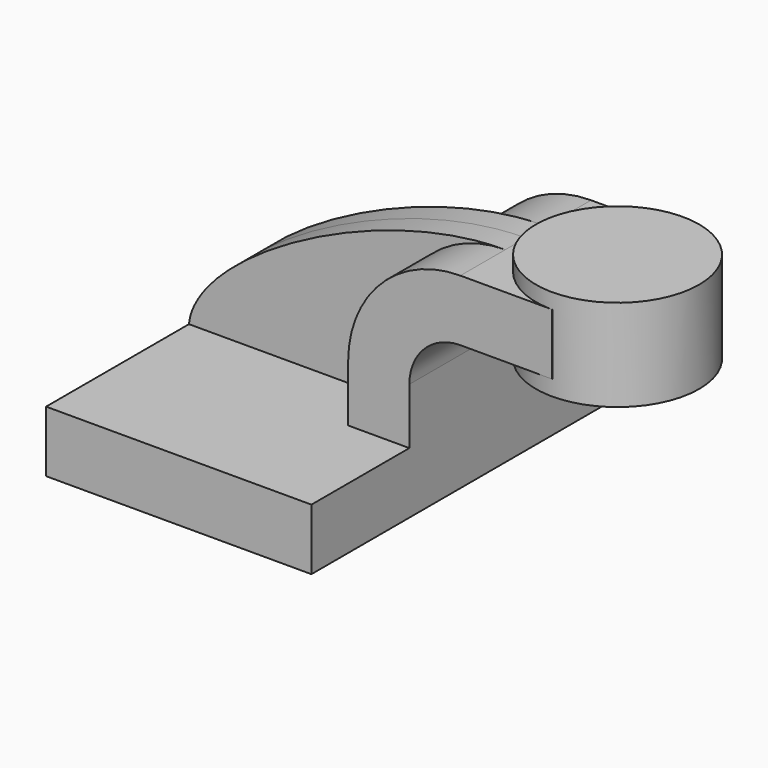
from build123d import *

# Parameters (mm, degrees)
F1_DEPTH = 63.5
F0_W     = 25.4
F0_H     = 19.05
F2_DEPTH = 25.4
F3_DEPTH = 7.9375


with BuildPart() as f1:
    # F0 (on Front) → F1 (new body, symmetric)
    with BuildSketch(Plane.XZ):
        Polygon((22.225, 9.525), (-41.275, 9.525), (-41.275, -9.525), (41.275, -9.525), (41.275, 9.525), align=None)
    extrude(amount=F1_DEPTH, both=True)

    # F0 (on Front) → F2 (join, symmetric)
    with BuildSketch(Plane.XZ):
        with BuildLine():
            Line((22.225, 27.0002), (22.225, 9.525))
            Line((22.225, 9.525), (41.275, 9.525))
            Line((41.275, 9.525), (41.275, 27.0002))
            ThreePointArc((41.275, 27.0002), (45.92468, 38.22552), (57.15, 42.8752))
            Line((57.15, 42.8752), (60.325, 42.8752))
            Line((60.325, 42.8752), (60.325, 61.9252))
            Line((60.325, 61.9252), (57.15, 61.9252))
            ThreePointArc((57.15, 61.9252), (32.454296, 51.695904), (22.225, 27.0002))
        make_face()
        with Locations((73.025, 52.4002)):
            Rectangle(F0_W, F0_H)
    extrude(amount=F2_DEPTH, both=True)

    # F0 (on Front) → F3 (join, symmetric)
    with BuildSketch(Plane.XZ):
        with BuildLine():
            add(Edge.make_bspline(
                [(-41.275, 9.525), (-39.190046, 30.985953), (16.987981, 61.968822), (57.15, 61.9252)],
                knots=[0, 0, 0, 0, 111.504536, 111.504536, 111.504536, 111.504536], degree=3))
            Line((-41.275, 9.525), (22.225, 9.525))
            Line((22.225, 9.525), (22.225, 27.0002))
            ThreePointArc((22.225, 27.0002), (32.454296, 51.695904), (57.15, 61.9252))
        make_face()
    extrude(amount=F3_DEPTH, both=True)


with BuildPart() as f4:
    # F0 (on Front) → F4 (revolve)
    with BuildSketch(Plane.XZ):
        Polygon((85.725, 66.675), (85.725, 61.9252), (85.725, 42.8752), (85.725, 38.1), (111.125, 38.1), (111.125, 66.675), align=None)
    revolve(axis=Axis((85.725, 0, 52.4002), (0, 0, -1)))


solid = Compound([f1.part, f4.part])
